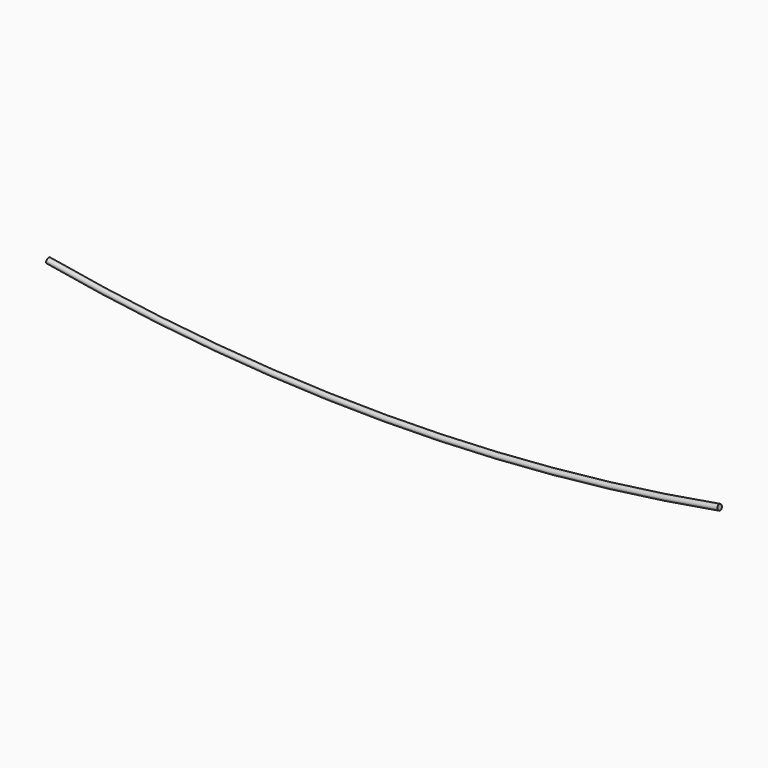
from build123d import *

# Parameters (mm, degrees)
F1_R = 0.809546


with BuildPart() as f2:
    # F2: sweep along a path in F0
    with BuildLine(Plane.XZ) as f2_path:
        ThreePointArc((-99.161334, 55.751652), (-0.271069, 47.074334), (98.593891, 56.035373))
    # F1 (on Right) → F2 (sweep)
    with BuildSketch(Plane.YZ):
        with Locations((0, 47.286045)):
            Circle(F1_R)
    sweep(path=f2_path.line)


solid = f2.part
